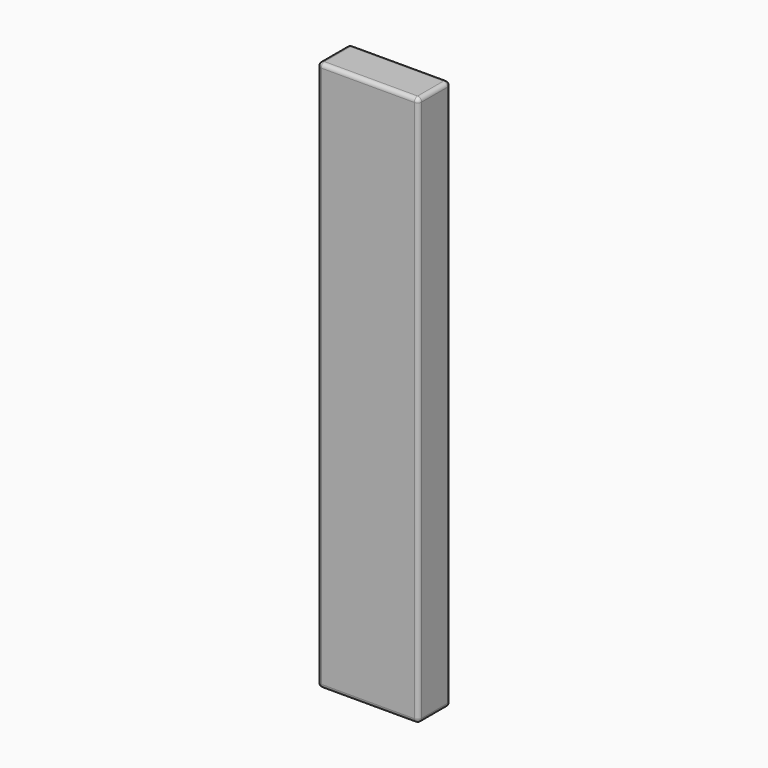
from build123d import *

# Parameters (mm, degrees)
F1_W     = 5
F1_H     = 2
F2_DEPTH = 13.6
F4_R     = 0.2


with BuildPart() as f2:
    # F1 (on Top) → F2 (new body)
    with BuildSketch(Plane.XY):
        with Locations((-20.9048481555, -2.5)):
            Rectangle(F1_W, F1_H)
    extrude(amount=F2_DEPTH)

    # F3: F2 across plane


with BuildPart() as f2_1:
    add(f2.part)
    add(f2.part.mirror(Plane.XY))

    # F4
    f4_edges = [f2_1.edges().sort_by_distance(p)[0] for p in [
        (-18.404848, -3.5, 0),
        (-18.404848, -2.5, 13.6),
        (-18.404848, -1.5, 0),
        (-18.404848, -2.5, -13.6),
        (-20.904848, -1.5, 13.6),
        (-23.404848, -2.5, 13.6),
        (-20.904848, -3.5, 13.6),
        (-23.404848, -3.5, 0),
        (-23.404848, -2.5, -13.6),
        (-23.404848, -1.5, 0),
        (-20.904848, -1.5, -13.6),
        (-20.904848, -3.5, -13.6),
    ]]
    fillet(f4_edges, radius=F4_R)


solid = f2_1.part
